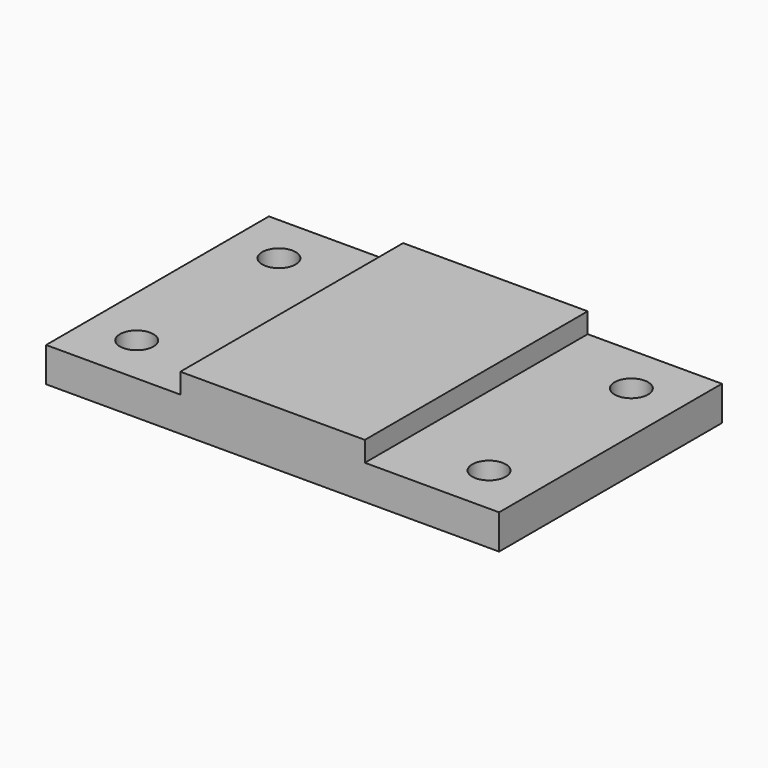
from build123d import *

# Parameters (mm, degrees)
F0_W     = 40
F0_H     = 83
F0_W_2   = 55
F1_DEPTH = 10.31
F2_R     = 5
F3_DEPTH = 10.311
F4_DEPTH = 6


with BuildPart() as f1:
    # F0 (on Top) → F1 (new body)
    with BuildSketch(Plane.XY):
        with Locations((-47.5, 0)):
            Rectangle(F0_W, F0_H)
        Rectangle(F0_W_2, F0_H)
        with Locations((47.5, 0)):
            Rectangle(F0_W, F0_H)
    extrude(amount=-F1_DEPTH)

    # F2 (on face) → F3 (cut, through all)
    with BuildSketch(Plane.XY):
        with Locations((52.5, 26.5)):
            Circle(F2_R)
        with Locations((52.5, -26.5)):
            Circle(F2_R)
        with Locations((-52.5, 26.5)):
            Circle(F2_R)
        with Locations((-52.5, -26.5)):
            Circle(F2_R)
    extrude(amount=-F3_DEPTH, mode=Mode.SUBTRACT)

    # F0 (on Top) → F4 (join)
    with BuildSketch(Plane.XY):
        Rectangle(F0_W_2, F0_H)
    extrude(amount=F4_DEPTH)


solid = f1.part
